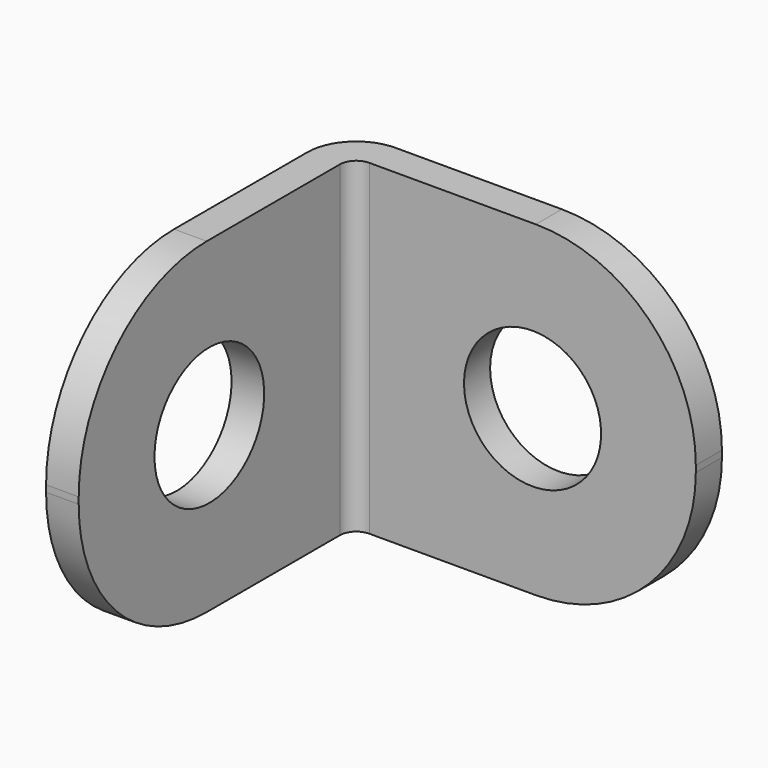
from build123d import *

# Parameters (mm, degrees)
PAD_DEPTH       = 10
FILLET_R        = 4.9
FILLET001_R     = 4.9
FILLET002_R     = 4.9
FILLET003_R     = 4.9
SKETCH001_R     = 2.1
POCKET_DEPTH    = 11.501
SKETCH002_R     = 2.1
POCKET001_DEPTH = 11.501


with BuildPart() as part:
    # Sketch → Pad (new body)
    with BuildSketch(Plane.XY):
        with BuildLine():
            Line((0, 0), (0, 10))
            ThreePointArc((1.5, 11.5), (0.43934, 11.06066), (0, 10))
            Line((1.5, 11.5), (11.5, 11.5))
            Line((11.5, 11.5), (11.5, 10.5))
            Line((1.5, 10.5), (11.5, 10.5))
            ThreePointArc((1.5, 10.5), (1.146447, 10.353553), (1, 10))
            Line((1, 0), (1, 10))
            Line((0, 0), (1, 0))
        make_face()
    extrude(amount=PAD_DEPTH)

    # Fillet
    fillet_edges = [part.edges().sort_by_distance(p)[0] for p in [
        (0.5, 0, 10),
    ]]
    fillet(fillet_edges, radius=FILLET_R)

    # Fillet001
    fillet001_edges = [part.edges().sort_by_distance(p)[0] for p in [
        (0.5, 0, 0),
    ]]
    fillet(fillet001_edges, radius=FILLET001_R)

    # Fillet002
    fillet002_edges = [part.edges().sort_by_distance(p)[0] for p in [
        (11.5, 11, 0),
    ]]
    fillet(fillet002_edges, radius=FILLET002_R)

    # Fillet003
    fillet003_edges = [part.edges().sort_by_distance(p)[0] for p in [
        (11.5, 11, 10),
    ]]
    fillet(fillet003_edges, radius=FILLET003_R)

    # Sketch001 → Pocket (cut, through all)
    with BuildSketch(Plane(origin=(0, 0, 0), x_dir=(0, -1, 0), z_dir=(-1, 0, 0))):
        with Locations((-5, 5)):
            Circle(SKETCH001_R)
    extrude(amount=-POCKET_DEPTH, mode=Mode.SUBTRACT)

    # Sketch002 → Pocket001 (cut, through all)
    with BuildSketch(Plane(origin=(0, 11.5, 0), x_dir=(-1, 0, 0), z_dir=(0, 1, 0))):
        with Locations((-6.5, 5)):
            Circle(SKETCH002_R)
    extrude(amount=-POCKET001_DEPTH, mode=Mode.SUBTRACT)


solid = part.part
